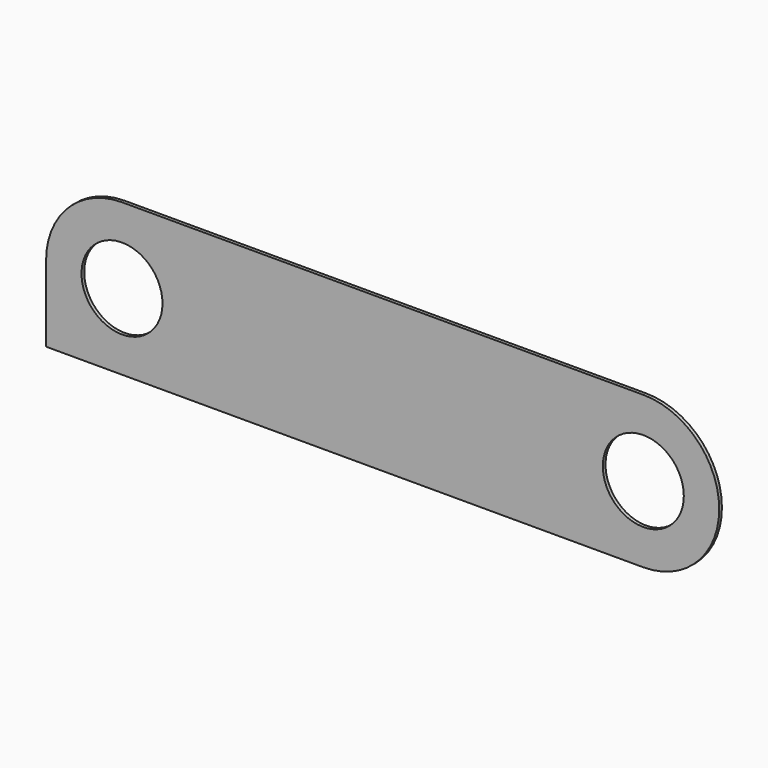
from build123d import *

# Parameters (mm, degrees)
F0_R     = 12
F1_DEPTH = 1
F3_DEPTH = 1


with BuildPart() as f1:
    # F0 (on Front) → F1 (new body)
    with BuildSketch(Plane.XZ):
        with BuildLine():
            Line((90, 22.5), (0, 22.5))
            Line((0, 22.5), (-64.5, 22.5))
            ThreePointArc((-64.5, 22.5), (-87, 0), (-64.5, -22.5))
            Line((-64.5, -22.5), (0, -22.5))
            Line((0, -22.5), (90, -22.5))
            ThreePointArc((90, -22.5), (112.5, 0), (90, 22.5))
        make_face()
        with Locations((-64.5, 0)):
            Circle(F0_R, mode=Mode.SUBTRACT)
        with Locations((90, 0)):
            Circle(F0_R, mode=Mode.SUBTRACT)
    extrude(amount=F1_DEPTH)

    # F2 (on face) → F3 (join)
    with BuildSketch(Plane.XZ.offset(1)):
        Polygon((-84.272794, -1.934636), (-87, 0), (-87, -22.5), (-64.5, -22.5), (-70.418127, -18.801184), (-80.156557, -10.970287), align=None)
    extrude(amount=-F3_DEPTH)


solid = f1.part
